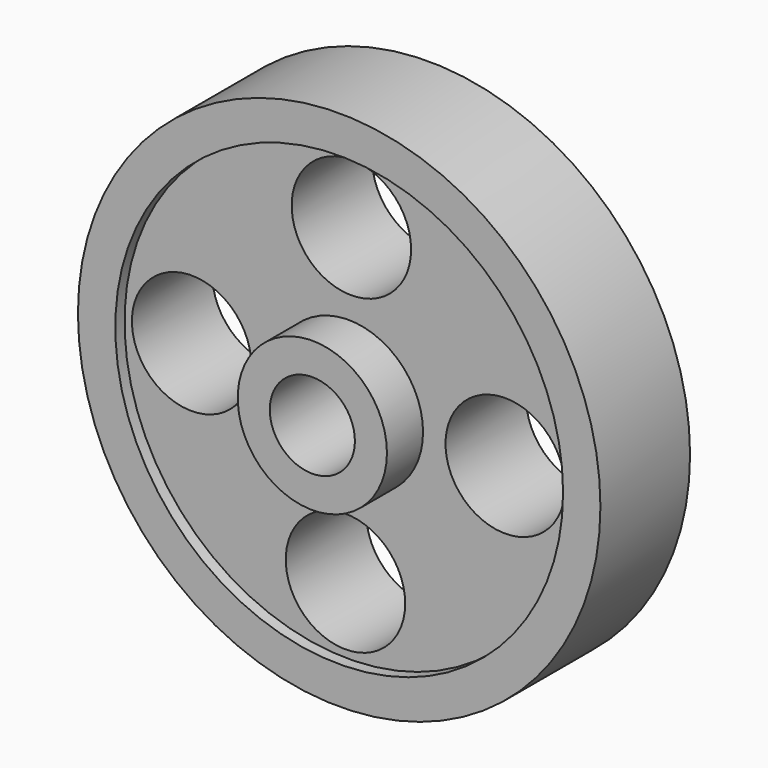
from build123d import *

# Parameters (mm, degrees)
F0_R     = 9.9949
F0_R_2   = 5.7023
F1_DEPTH = 19.5072
F0_R_3   = 29.9974
F0_R_4   = 8.001
F2_DEPTH = 13.462
F0_R_5   = 35.0012
F3_DEPTH = 15.0114


with BuildPart() as f1:
    # F0 (on Front) → F1 (new body)
    with BuildSketch(Plane.XZ):
        Circle(F0_R)
        Circle(F0_R_2, mode=Mode.SUBTRACT)
    extrude(amount=F1_DEPTH)

    # F0 (on Front) → F2 (join)
    with BuildSketch(Plane.XZ):
        Circle(F0_R_3)
        with Locations((-0.396391, -21.008808)):
            Circle(F0_R_4, mode=Mode.SUBTRACT)
        with Locations((21.008808, -0.396391)):
            Circle(F0_R_4, mode=Mode.SUBTRACT)
        with Locations((-21.008808, 0.396391)):
            Circle(F0_R_4, mode=Mode.SUBTRACT)
        Circle(F0_R, mode=Mode.SUBTRACT)
        with Locations((0.396391, 21.008808)):
            Circle(F0_R_4, mode=Mode.SUBTRACT)
    extrude(amount=F2_DEPTH)

    # F0 (on Front) → F3 (join)
    with BuildSketch(Plane.XZ):
        Circle(F0_R_5)
        Circle(F0_R_3, mode=Mode.SUBTRACT)
    extrude(amount=F3_DEPTH)


solid = f1.part
